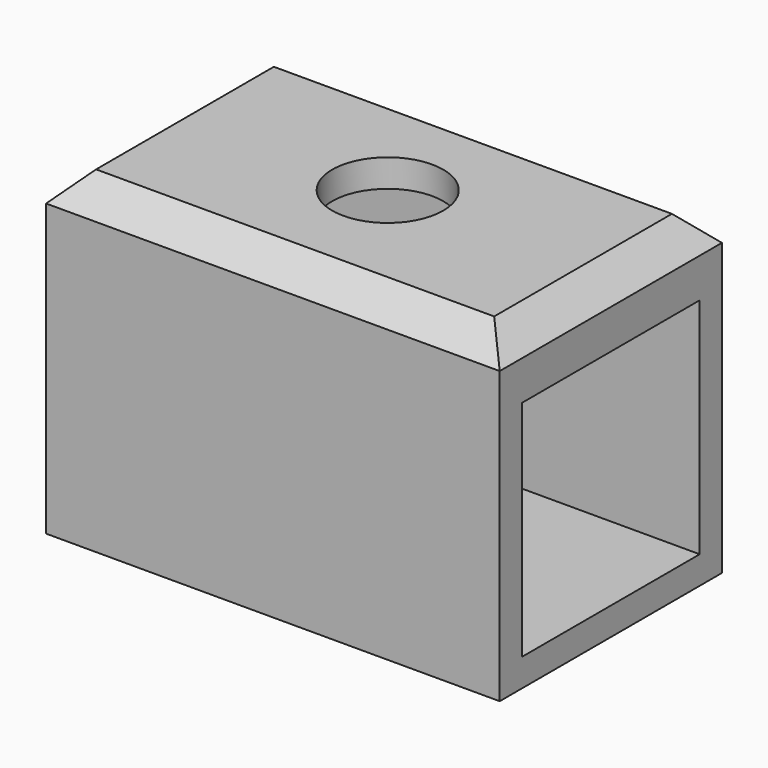
from build123d import *

# Parameters (mm, degrees)
F0_W     = 207.425324
F0_H     = 127
F1_DEPTH = 72.80146
F2_SIZE  = 12.7
F3_T     = -12.7
F4_R     = 25.4
F5_DEPTH = 148.94068


with BuildPart() as f1:
    # F0 (on Top) → F1 (new body, symmetric)
    with BuildSketch(Plane.XY):
        with Locations((103.712662, 63.5)):
            Rectangle(F0_W, F0_H)
    extrude(amount=F1_DEPTH, both=True)

    # F2
    f2_edges = [f1.edges().sort_by_distance(p)[0] for p in [
        (207.425324, 63.5, 72.80146),
        (103.712662, 127, 72.80146),
        (0, 63.5, 72.80146),
        (103.712662, 0, 72.80146),
    ]]
    chamfer(f2_edges, length=F2_SIZE)

    # F3
    f3_openings = [f1.faces().sort_by_distance(p)[0] for p in [
        (207.425324, 63.5, -6.35),
    ]]
    offset(amount=F3_T, openings=f3_openings)

    # F4 (on face) → F5 (cut)
    with BuildSketch(Plane.XY.offset(72.80146)):
        with Locations((104.037382, 65.22774)):
            Circle(F4_R)
    extrude(amount=-F5_DEPTH, mode=Mode.SUBTRACT)


solid = f1.part
